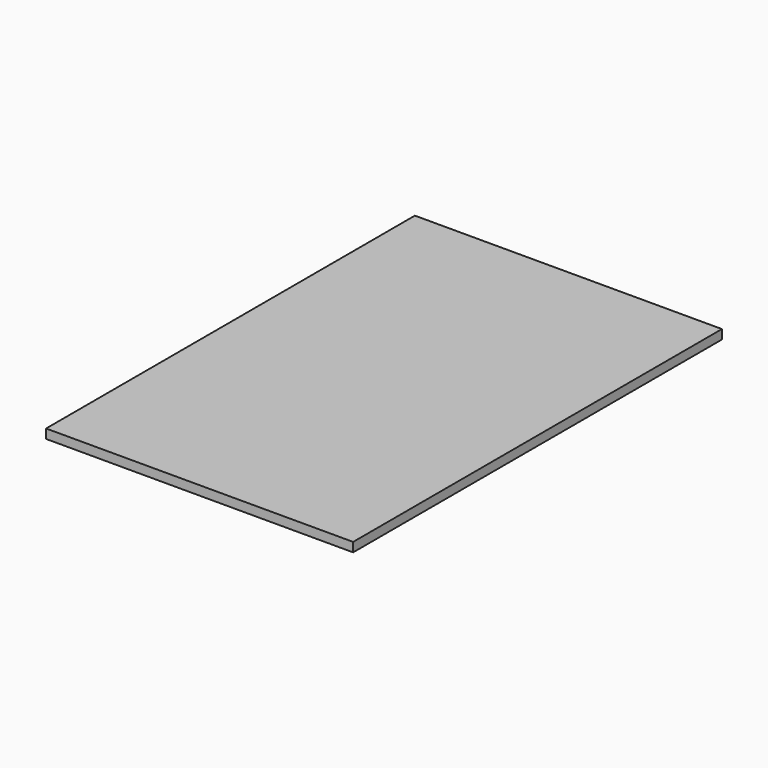
from build123d import *

# Parameters (mm, degrees)
F0_W     = 26.1643622071
F0_H     = 29.6277850866
F0_H_2   = 147.5912675261
F0_W_2   = 26.3665765524
F0_H_3   = 22.7809473872
F0_W_3   = 80.6888844818
F1_DEPTH = 4


with BuildPart() as f1:
    # F0 (on Top) → F1 (new body)
    with BuildSketch(Plane.XY):
        with Locations((13.0821811035, -185.1861074567)):
            Rectangle(F0_W, F0_H)
        with Locations((13.0821811035, -96.5765811503)):
            Rectangle(F0_W, F0_H_2)
        with Locations((120.036534965, -11.3904736936)):
            Rectangle(F0_W_2, F0_H_3)
        with Locations((66.5088044479, -11.3904736936)):
            Rectangle(F0_W_3, F0_H_3)
        with Locations((120.036534965, -96.5765811503)):
            Rectangle(F0_W_2, F0_H_2)
        with Locations((13.0821811035, -11.3904736936)):
            Rectangle(F0_W, F0_H_3)
        with Locations((66.5088044479, -185.1861074567)):
            Rectangle(F0_W_3, F0_H)
        with Locations((120.036534965, -185.1861074567)):
            Rectangle(F0_W_2, F0_H)
        with Locations((120.036534965, -96.5765811503)):
            Rectangle(F0_W_2, F0_H_2)
        with Locations((66.5088044479, -96.5765811503)):
            Rectangle(F0_W_3, F0_H_2)
    extrude(amount=F1_DEPTH)


solid = f1.part
